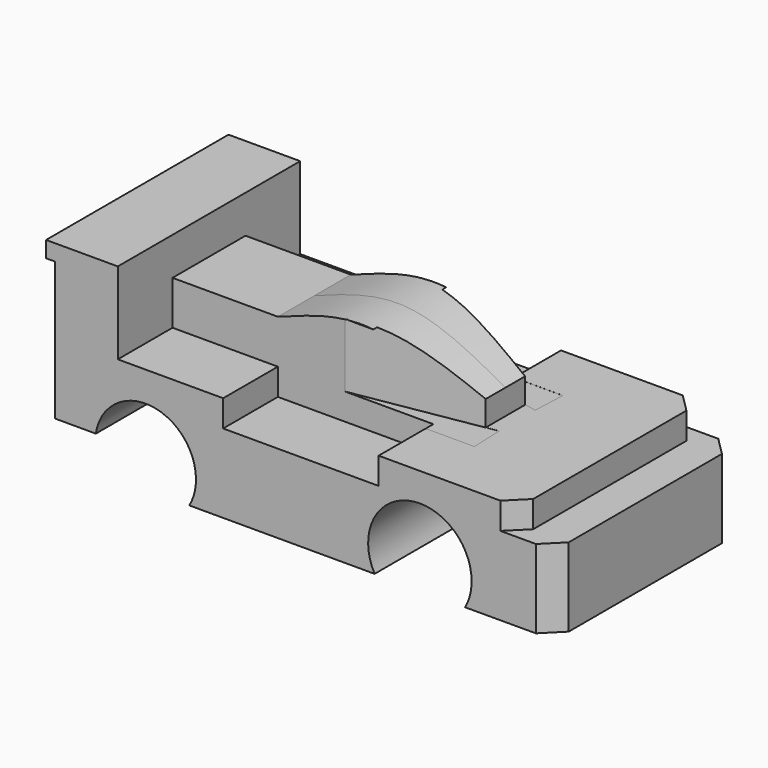
from build123d import *

# Parameters (mm, degrees)
F1_DEPTH = 31.75
F2_DEPTH = 12.7
F3_DEPTH = 12.7
F0_W     = 2.4479581043
F0_H     = 4.5006387227
F4_DEPTH = 31.75
F5_SIZE  = 5.08
F7_DEPTH = 17.78


with BuildPart() as f1:
    # F0 (on Front) → F1 (new body, symmetric)
    with BuildSketch(Plane.XZ):
        with BuildLine():
            Line((-37.2165674344, 5.0159874372), (-54.7461742535, 5.0159874372))
            Line((-54.7461742535, 5.0159874372), (-54.7461742535, 0.5153487145))
            Line((-54.7461742535, 0.5153487145), (-54.7461742535, -37.9826184362))
            Line((-54.7461742535, -37.9826184362), (-43.3364818902, -37.9826184362))
            ThreePointArc((-43.3364818902, -37.9826184362), (-28.3889674357, -26.1480412328), (-15.4376497281, -40.1390660554))
            ThreePointArc((-15.4376497281, -40.1390660554), (-15.9095240894, -43.7474911576), (-17.2934120834, -47.1132379025))
            Line((-17.2934120834, -47.1132379025), (34.3146193156, -47.1132379025))
            ThreePointArc((34.3146193156, -47.1132379025), (43.3213433173, -26.1879454869), (61.3312065818, -40.1390660554))
            ThreePointArc((61.3312065818, -40.1390660554), (60.8738629577, -43.7404651272), (59.5308654627, -47.1132379025))
            Line((59.5308654627, -47.1132379025), (84.3179924414, -47.0838975161))
            Line((84.3179924414, -47.0838975161), (84.3179924414, -25.180962868))
            Line((84.3179924414, -25.180962868), (74.4349635206, -25.180962868))
            Line((74.4349635206, -25.180962868), (74.4349635206, -17.7660211921))
            Line((74.4349635206, -17.7660211921), (45.3435182571, -17.7660211921))
            Line((45.3435182571, -17.7660211921), (35.4370600544, -17.7660211921))
            Line((35.4370600544, -17.7660211921), (35.4370600544, -25.180962868))
            Line((35.4370600544, -25.180962868), (-7.8752368445, -25.180962868))
            Line((-7.8752368445, -25.180962868), (-7.8752368445, -17.7660211921))
            Line((-7.8752368445, -17.7660211921), (-37.2165674344, -17.7660211921))
            Line((-37.2165674344, -17.7660211921), (-37.2165674344, -5.5272214778))
            Line((-37.2165674344, -5.5272214778), (-37.2165674344, 5.0159874372))
        make_face()
    extrude(amount=F1_DEPTH, both=True)

    # F0 (on Front) → F2 (join, symmetric)
    with BuildSketch(Plane.XZ):
        with BuildLine():
            add(Edge.make_bspline(
                [(-7.8752368445, -5.5272214778), (0.0340392295, -2.6463832002), (18.3779976424, 4.9271584445), (39.107106626, -7.3388037272), (45.3435182571, -10.7714328915)],
                knots=[0, 0, 0, 0, 0.4928089492, 1, 1, 1, 1], degree=3))
            Line((-7.8752368445, -5.5272214778), (-7.8752368445, -14.7637212649))
            Line((-7.8752368445, -14.7637212649), (-7.8752368445, -17.7660211921))
            Line((-7.8752368445, -17.7660211921), (-7.8752368445, -25.180962868))
            Line((-7.8752368445, -25.180962868), (35.4370600544, -25.180962868))
            Line((35.4370600544, -25.180962868), (35.4370600544, -17.7660211921))
            Line((35.4370600544, -17.7660211921), (45.3435182571, -17.7660211921))
            Line((45.3435182571, -17.7660211921), (45.3435182571, -10.7714328915))
        make_face()
    extrude(amount=F2_DEPTH, both=True)

    # F0 (on Front) → F3 (join, symmetric)
    with BuildSketch(Plane.XZ):
        Polygon((-7.8752368445, -5.5272214778), (-37.2165674344, -5.5272214778), (-37.2165674344, -17.7660211921), (-7.8752368445, -17.7660211921), (-7.8752368445, -14.7637212649), align=None)
    extrude(amount=F3_DEPTH, both=True)

    # F0 (on Front) → F4 (join, symmetric)
    with BuildSketch(Plane.XZ):
        with Locations((-55.9701533057, 2.7656680759)):
            Rectangle(F0_W, F0_H)
    extrude(amount=F4_DEPTH, both=True)

    # F5
    f5_edges = [f1.edges().sort_by_distance(p)[0] for p in [
        (74.434964, -31.75, -21.473492),
        (74.434964, 31.75, -21.473492),
        (84.317992, 31.75, -36.13243),
        (84.317992, -31.75, -36.13243),
    ]]
    chamfer(f5_edges, length=F5_SIZE)

    # F6 (on Top) → F7 (cut)
    with BuildSketch(Plane.XY):
        Polygon((7.4531887515, -13.2663722182), (7.5393404698, -15.4116023798), (49.021124661, -15.384102137), (48.6561246216, -6.2953792512), align=None)
        Polygon((48.6561246216, 6.2953792512), (49.021124661, 15.384102137), (7.5393404698, 15.4116023798), (7.4531887515, 13.2663722182), align=None)
    extrude(amount=-F7_DEPTH, mode=Mode.SUBTRACT)


solid = f1.part
